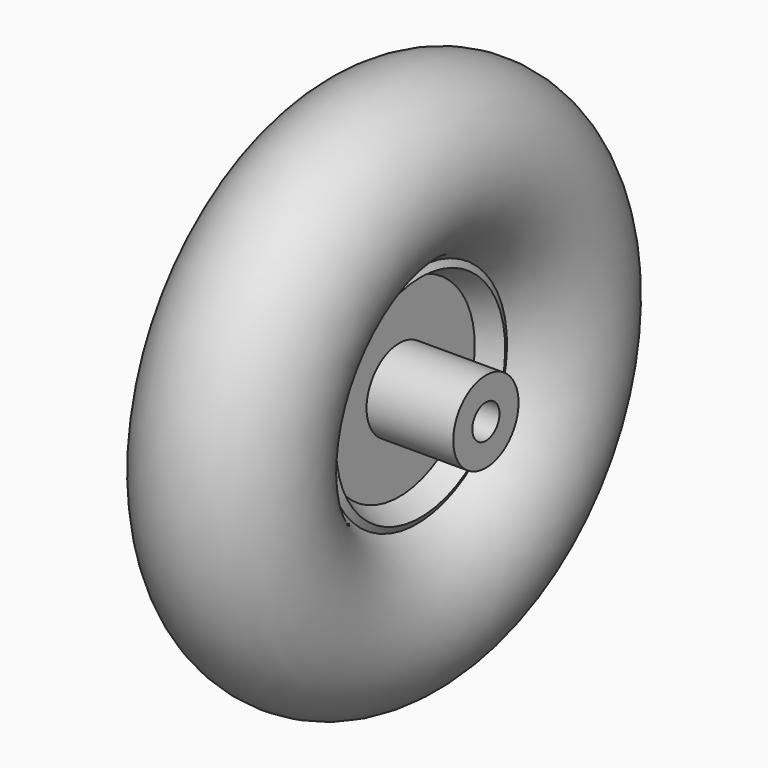
from build123d import *

# Parameters (mm, degrees)
F0_R = 38.1


with BuildPart() as f1:
    # F0 (on Front) → F1 (revolve)
    with BuildSketch(Plane.XZ):
        with Locations((0, 88.9)):
            Circle(F0_R)
        Polygon((-5.653383, 43.359546), (-5.653383, 7.9375), (47.506287, 7.9375), (47.506287, 19.05), (7.046617, 19.05), (7.046617, 44.094552), (17.035607, 49.364292), (15.378452, 52.505492), (0, 44.392516), (-15.378452, 52.505492), (-17.035607, 49.364292), align=None)
    revolve(axis=Axis((5.978525, 0, 0), (1, 0, 0)))


solid = f1.part
